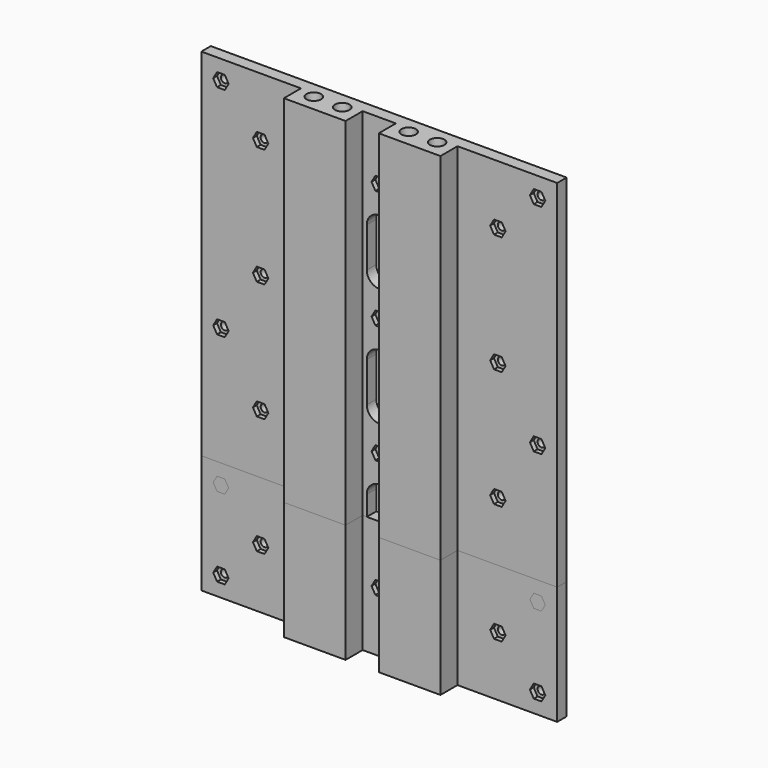
from build123d import *

# Parameters (mm, degrees)
SKETCH_R        = 3.0625
PAD_DEPTH       = 200
SKETCH001_R     = 1.6
POCKET_DEPTH    = 5
POCKET001_DEPTH = 2
SKETCH003_R     = 3
PAD001_DEPTH    = 50
SKETCH004_R     = 1.6
POCKET002_DEPTH = 5
POCKET003_DEPTH = 2


with BuildPart() as body:
    # Sketch → Pad (new body)
    with BuildSketch(Plane.XY):
        Polygon((-75, 7), (75, 7), (75, 2), (33, 2), (33, -7), (7, -7), (7, 2), (-7, 2), (-7, -7), (-33, -7), (-33, 2), (-75, 2), align=None)
        with Locations((-14, 0)):
            Circle(SKETCH_R, mode=Mode.SUBTRACT)
        with Locations((14, 0)):
            Circle(SKETCH_R, mode=Mode.SUBTRACT)
        with Locations((-26, 0)):
            Circle(SKETCH_R, mode=Mode.SUBTRACT)
        with Locations((26, 0)):
            Circle(SKETCH_R, mode=Mode.SUBTRACT)
    extrude(amount=PAD_DEPTH)

    # Sketch001 (on Face4 of Pad) → Pocket (cut)
    with BuildSketch(Plane(origin=(0, 7, 0), x_dir=(-1, 0, 0), z_dir=(0, 1, 0))):
        with Locations((0, 125)):
            Circle(SKETCH001_R)
        with Locations((-50, 125)):
            Circle(SKETCH001_R)
        with Locations((50, 125)):
            Circle(SKETCH001_R)
        with Locations((-50, 75)):
            Circle(SKETCH001_R)
        with Locations((0, 75)):
            Circle(SKETCH001_R)
        with Locations((50, 75)):
            Circle(SKETCH001_R)
        with Locations((-50, 175)):
            Circle(SKETCH001_R)
        with Locations((50, 175)):
            Circle(SKETCH001_R)
        with Locations((-50, 25)):
            Circle(SKETCH001_R)
        with Locations((0, 25)):
            Circle(SKETCH001_R)
        with Locations((50, 25)):
            Circle(SKETCH001_R)
        with Locations((0, 175)):
            Circle(SKETCH001_R)
        with Locations((66.75, 191.75)):
            Circle(SKETCH001_R)
        with Locations((-66.75, 191.75)):
            Circle(SKETCH001_R)
        with Locations((-66.75, 8.25)):
            Circle(SKETCH001_R)
        with Locations((66.75, 8.25)):
            Circle(SKETCH001_R)
        with Locations((-66.75, 100)):
            Circle(SKETCH001_R)
        with Locations((66.75, 100)):
            Circle(SKETCH001_R)
        with BuildLine():
            ThreePointArc((5.25, 158.4), (0, 163.65), (-5.25, 158.4))
            Line((-5.25, 158.4), (-5.25, 141.6))
            ThreePointArc((-5.25, 141.6), (0, 136.35), (5.25, 141.6))
            Line((5.25, 141.6), (5.25, 158.4))
        make_face()
        with BuildLine():
            ThreePointArc((5.25, 108.4), (0, 113.65), (-5.25, 108.4))
            Line((-5.25, 108.4), (-5.25, 91.6))
            ThreePointArc((-5.25, 91.6), (0, 86.35), (5.25, 91.6))
            Line((5.25, 91.6), (5.25, 108.4))
        make_face()
        with BuildLine():
            ThreePointArc((5.25, 58.4), (0, 63.65), (-5.25, 58.4))
            Line((-5.25, 58.4), (-5.25, 41.6))
            ThreePointArc((-5.25, 41.6), (0, 36.35), (5.25, 41.6))
            Line((5.25, 41.6), (5.25, 58.4))
        make_face()
    extrude(amount=-POCKET_DEPTH, mode=Mode.SUBTRACT)

    # Sketch002 (on Face21 of Pocket) → Pocket001 (cut)
    with BuildSketch(Plane.XZ.offset(-2)):
        Polygon((-48.375, 122.185417), (-46.75, 125), (-48.375, 127.814583), (-51.625, 127.814583), (-53.25, 125), (-51.625, 122.185417), align=None)
        Polygon((1.625, 122.185417), (3.25, 125), (1.625, 127.814583), (-1.625, 127.814583), (-3.25, 125), (-1.625, 122.185417), align=None)
        Polygon((53.25, 125), (51.625, 127.814583), (48.375, 127.814583), (46.75, 125), (48.375, 122.185417), (51.625, 122.185417), align=None)
        Polygon((53.25, 175), (51.625, 177.814583), (48.375, 177.814583), (46.75, 175), (48.375, 172.185417), (51.625, 172.185417), align=None)
        Polygon((3.25, 175), (1.625, 177.814583), (-1.625, 177.814583), (-3.25, 175), (-1.625, 172.185417), (1.625, 172.185417), align=None)
        Polygon((-48.375, 172.185417), (-46.75, 175), (-48.375, 177.814583), (-51.625, 177.814583), (-53.25, 175), (-51.625, 172.185417), align=None)
        Polygon((-46.75, 75), (-48.375, 77.814583), (-51.625, 77.814583), (-53.25, 75), (-51.625, 72.185417), (-48.375, 72.185417), align=None)
        Polygon((1.625, 72.185417), (3.25, 75), (1.625, 77.814583), (-1.625, 77.814583), (-3.25, 75), (-1.625, 72.185417), align=None)
        Polygon((51.625, 72.185417), (53.25, 75), (51.625, 77.814583), (48.375, 77.814583), (46.75, 75), (48.375, 72.185417), align=None)
        Polygon((51.625, 22.185417), (53.25, 25), (51.625, 27.814583), (48.375, 27.814583), (46.75, 25), (48.375, 22.185417), align=None)
        Polygon((1.625, 22.185417), (3.25, 25), (1.625, 27.814583), (-1.625, 27.814583), (-3.25, 25), (-1.625, 22.185417), align=None)
        Polygon((-46.75, 25), (-48.375, 27.814583), (-51.625, 27.814583), (-53.25, 25), (-51.625, 22.185417), (-48.375, 22.185417), align=None)
        Polygon((-63.5, 100), (-65.125, 102.814583), (-68.375, 102.814583), (-70, 100), (-68.375, 97.185417), (-65.125, 97.185417), align=None)
        Polygon((-65.125, 188.935417), (-63.5, 191.75), (-65.125, 194.564583), (-68.375, 194.564583), (-70, 191.75), (-68.375, 188.935417), align=None)
        Polygon((70, 191.75), (68.375, 194.564583), (65.125, 194.564583), (63.5, 191.75), (65.125, 188.935417), (68.375, 188.935417), align=None)
        Polygon((70, 100), (68.375, 102.814583), (65.125, 102.814583), (63.5, 100), (65.125, 97.185417), (68.375, 97.185417), align=None)
        Polygon((-63.5, 8.25), (-65.125, 11.064583), (-68.375, 11.064583), (-70, 8.25), (-68.375, 5.435417), (-65.125, 5.435417), align=None)
        Polygon((70, 8.25), (68.375, 11.064583), (65.125, 11.064583), (63.5, 8.25), (65.125, 5.435417), (68.375, 5.435417), align=None)
    extrude(amount=-POCKET001_DEPTH, mode=Mode.SUBTRACT)


with BuildPart() as shortplatebody:
    # Sketch003 → Pad001 (new body)
    with BuildSketch(Plane.XY):
        Polygon((-75, 7), (75, 7), (75, 2), (33, 2), (33, -7), (7, -7), (7, 2), (-7, 2), (-7, -7), (-33, -7), (-33, 2), (-75, 2), align=None)
        with Locations((-26, 0)):
            Circle(SKETCH003_R, mode=Mode.SUBTRACT)
        with Locations((-14, 0)):
            Circle(SKETCH003_R, mode=Mode.SUBTRACT)
        with Locations((14, 0)):
            Circle(SKETCH003_R, mode=Mode.SUBTRACT)
        with Locations((26, 0)):
            Circle(SKETCH003_R, mode=Mode.SUBTRACT)
    extrude(amount=PAD001_DEPTH)

    # Sketch004 (on Face2 of Pad001) → Pocket002 (cut)
    with BuildSketch(Plane(origin=(0, 7, 0), x_dir=(-1, 0, 0), z_dir=(0, 1, 0))):
        with Locations((0, 25)):
            Circle(SKETCH004_R)
        with Locations((50, 25)):
            Circle(SKETCH004_R)
        with Locations((-50, 25)):
            Circle(SKETCH004_R)
        with Locations((-66.75, 41.75)):
            Circle(SKETCH004_R)
        with Locations((-66.75, 8.25)):
            Circle(SKETCH004_R)
        with Locations((66.75, 8.25)):
            Circle(SKETCH004_R)
        with Locations((66.75, 41.75)):
            Circle(SKETCH004_R)
    extrude(amount=-POCKET002_DEPTH, mode=Mode.SUBTRACT)

    # Sketch005 (on Face19 of Pocket002) → Pocket003 (cut)
    with BuildSketch(Plane.XZ.offset(-2)):
        Polygon((3.25, 25), (1.625, 27.814583), (-1.625, 27.814583), (-3.25, 25), (-1.625, 22.185417), (1.625, 22.185417), align=None)
        Polygon((51.625, 22.185417), (53.25, 25), (51.625, 27.814583), (48.375, 27.814583), (46.75, 25), (48.375, 22.185417), align=None)
        Polygon((-48.375, 22.185417), (-46.75, 25), (-48.375, 27.814583), (-51.625, 27.814583), (-53.25, 25), (-51.625, 22.185417), align=None)
        Polygon((-63.5, 41.75), (-65.125, 44.564583), (-68.375, 44.564583), (-70, 41.75), (-68.375, 38.935417), (-65.125, 38.935417), align=None)
        Polygon((-65.125, 5.435417), (-63.5, 8.25), (-65.125, 11.064583), (-68.375, 11.064583), (-70, 8.25), (-68.375, 5.435417), align=None)
        Polygon((68.375, 5.435417), (70, 8.25), (68.375, 11.064583), (65.125, 11.064583), (63.5, 8.25), (65.125, 5.435417), align=None)
        Polygon((70, 41.75), (68.375, 44.564583), (65.125, 44.564583), (63.5, 41.75), (65.125, 38.935417), (68.375, 38.935417), align=None)
    extrude(amount=-POCKET003_DEPTH, mode=Mode.SUBTRACT)


solid = Compound([body.part, shortplatebody.part])
